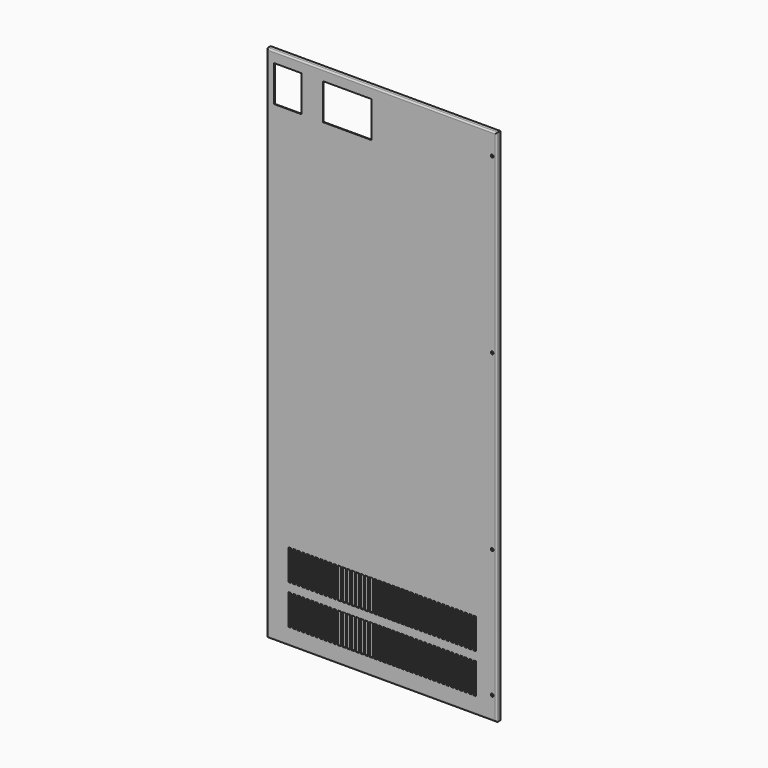
from build123d import *

# Parameters (mm, degrees)
F0_W     = 808.0375
F0_H     = 1825.625
F1_DEPTH = 7.9375
F2_T     = -2.65684
F3_R     = 5.08
F4_W     = 95.25
F4_H     = 127
F4_R     = 4.7625
F4_W_2   = 9.525
F4_H_2   = 107.95
F4_W_3   = 171.45
F5_DEPTH = 15.876
F7_W     = 1.5875
F7_H     = 19.05


with BuildPart() as f1:
    # F0 (on Front) → F1 (new body, symmetric)
    with BuildSketch(Plane.XZ):
        Rectangle(F0_W, F0_H)
        Rectangle(F0_W, F0_H)
    extrude(amount=F1_DEPTH, both=True)

    # F2
    f2_openings = [f1.faces().sort_by_distance(p)[0] for p in [
        (0, 7.9375, 0),
    ]]
    offset(amount=F2_T, openings=f2_openings)

    # F3
    f3_edges = [f1.edges().sort_by_distance(p)[0] for p in [
        (0, -7.9375, 912.8125),
        (404.01875, -7.9375, 0),
        (-404.01875, -7.9375, 0),
        (0, -7.9375, -912.8125),
    ]]
    fillet(f3_edges, radius=F3_R)

    # F4 (on face) → F5 (cut, through all)
    with BuildSketch(Plane.XZ.offset(7.9375)):
        with Locations((-330.99375, 811.2125)):
            Rectangle(F4_W, F4_H)
        with Locations((388.14375, 836.6125)):
            Circle(F4_R)
        with Locations((388.14375, -382.5875)):
            Circle(F4_R)
        with Locations((388.14375, -833.4375)):
            Circle(F4_R)
        with Locations((327.01865, -800.9255)):
            Rectangle(F4_W_2, F4_H_2)
        with Locations((311.14365, -800.9255)):
            Rectangle(F4_W_2, F4_H_2)
        with Locations((295.26865, -800.9255)):
            Rectangle(F4_W_2, F4_H_2)
        with Locations((279.39365, -800.9255)):
            Rectangle(F4_W_2, F4_H_2)
        with Locations((263.51865, -800.9255)):
            Rectangle(F4_W_2, F4_H_2)
        with Locations((247.64365, -800.9255)):
            Rectangle(F4_W_2, F4_H_2)
        with Locations((231.76865, -800.9255)):
            Rectangle(F4_W_2, F4_H_2)
        with Locations((215.89365, -800.9255)):
            Rectangle(F4_W_2, F4_H_2)
        with Locations((200.01865, -800.9255)):
            Rectangle(F4_W_2, F4_H_2)
        with Locations((184.14365, -800.9255)):
            Rectangle(F4_W_2, F4_H_2)
        with Locations((168.26865, -800.9255)):
            Rectangle(F4_W_2, F4_H_2)
        with Locations((152.39365, -800.9255)):
            Rectangle(F4_W_2, F4_H_2)
        with Locations((136.51865, -800.9255)):
            Rectangle(F4_W_2, F4_H_2)
        with Locations((120.64365, -800.9255)):
            Rectangle(F4_W_2, F4_H_2)
        with Locations((104.76865, -800.9255)):
            Rectangle(F4_W_2, F4_H_2)
        with Locations((88.89365, -800.9255)):
            Rectangle(F4_W_2, F4_H_2)
        with Locations((73.01865, -800.9255)):
            Rectangle(F4_W_2, F4_H_2)
        with Locations((57.14365, -800.9255)):
            Rectangle(F4_W_2, F4_H_2)
        with Locations((41.26865, -800.9255)):
            Rectangle(F4_W_2, F4_H_2)
        with Locations((25.39365, -800.9255)):
            Rectangle(F4_W_2, F4_H_2)
        with Locations((9.51865, -800.9255)):
            Rectangle(F4_W_2, F4_H_2)
        with Locations((-6.35635, -800.9255)):
            Rectangle(F4_W_2, F4_H_2)
        with Locations((-22.23135, -800.9255)):
            Rectangle(F4_W_2, F4_H_2)
        with Locations((-38.10635, -800.9255)):
            Rectangle(F4_W_2, F4_H_2)
        with Locations((-53.98135, -800.9255)):
            Rectangle(F4_W_2, F4_H_2)
        with Locations((-69.85635, -800.9255)):
            Rectangle(F4_W_2, F4_H_2)
        with Locations((-85.73135, -800.9255)):
            Rectangle(F4_W_2, F4_H_2)
        with Locations((-101.60635, -800.9255)):
            Rectangle(F4_W_2, F4_H_2)
        with Locations((-117.48135, -800.9255)):
            Rectangle(F4_W_2, F4_H_2)
        with Locations((-133.35635, -800.9255)):
            Rectangle(F4_W_2, F4_H_2)
        with Locations((-149.23135, -800.9255)):
            Rectangle(F4_W_2, F4_H_2)
        with Locations((-165.10635, -800.9255)):
            Rectangle(F4_W_2, F4_H_2)
        with Locations((-180.98135, -800.9255)):
            Rectangle(F4_W_2, F4_H_2)
        with Locations((-196.85635, -800.9255)):
            Rectangle(F4_W_2, F4_H_2)
        with Locations((-212.73135, -800.9255)):
            Rectangle(F4_W_2, F4_H_2)
        with Locations((-228.60635, -800.9255)):
            Rectangle(F4_W_2, F4_H_2)
        with Locations((-244.48135, -800.9255)):
            Rectangle(F4_W_2, F4_H_2)
        with Locations((-260.35635, -800.9255)):
            Rectangle(F4_W_2, F4_H_2)
        with Locations((-276.23135, -800.9255)):
            Rectangle(F4_W_2, F4_H_2)
        with Locations((-292.10635, -800.9255)):
            Rectangle(F4_W_2, F4_H_2)
        with Locations((-307.98135, -800.9255)):
            Rectangle(F4_W_2, F4_H_2)
        with Locations((-323.85635, -800.9255)):
            Rectangle(F4_W_2, F4_H_2)
        with Locations((327.01865, -661.9875)):
            Rectangle(F4_W_2, F4_H_2)
        with Locations((311.14365, -661.9875)):
            Rectangle(F4_W_2, F4_H_2)
        with Locations((295.26865, -661.9875)):
            Rectangle(F4_W_2, F4_H_2)
        with Locations((279.39365, -661.9875)):
            Rectangle(F4_W_2, F4_H_2)
        with Locations((263.51865, -661.9875)):
            Rectangle(F4_W_2, F4_H_2)
        with Locations((247.64365, -661.9875)):
            Rectangle(F4_W_2, F4_H_2)
        with Locations((231.76865, -661.9875)):
            Rectangle(F4_W_2, F4_H_2)
        with Locations((215.89365, -661.9875)):
            Rectangle(F4_W_2, F4_H_2)
        with Locations((200.01865, -661.9875)):
            Rectangle(F4_W_2, F4_H_2)
        with Locations((184.14365, -661.9875)):
            Rectangle(F4_W_2, F4_H_2)
        with Locations((168.26865, -661.9875)):
            Rectangle(F4_W_2, F4_H_2)
        with Locations((152.39365, -661.9875)):
            Rectangle(F4_W_2, F4_H_2)
        with Locations((136.51865, -661.9875)):
            Rectangle(F4_W_2, F4_H_2)
        with Locations((120.64365, -661.9875)):
            Rectangle(F4_W_2, F4_H_2)
        with Locations((104.76865, -661.9875)):
            Rectangle(F4_W_2, F4_H_2)
        with Locations((88.89365, -661.9875)):
            Rectangle(F4_W_2, F4_H_2)
        with Locations((73.01865, -661.9875)):
            Rectangle(F4_W_2, F4_H_2)
        with Locations((57.14365, -661.9875)):
            Rectangle(F4_W_2, F4_H_2)
        with Locations((41.26865, -661.9875)):
            Rectangle(F4_W_2, F4_H_2)
        with Locations((25.39365, -661.9875)):
            Rectangle(F4_W_2, F4_H_2)
        with Locations((9.51865, -661.9875)):
            Rectangle(F4_W_2, F4_H_2)
        with Locations((-6.35635, -661.9875)):
            Rectangle(F4_W_2, F4_H_2)
        with Locations((-22.23135, -661.9875)):
            Rectangle(F4_W_2, F4_H_2)
        with Locations((-38.10635, -661.9875)):
            Rectangle(F4_W_2, F4_H_2)
        with Locations((-53.98135, -661.9875)):
            Rectangle(F4_W_2, F4_H_2)
        with Locations((-69.85635, -661.9875)):
            Rectangle(F4_W_2, F4_H_2)
        with Locations((-85.73135, -661.9875)):
            Rectangle(F4_W_2, F4_H_2)
        with Locations((-101.60635, -661.9875)):
            Rectangle(F4_W_2, F4_H_2)
        with Locations((-117.48135, -661.9875)):
            Rectangle(F4_W_2, F4_H_2)
        with Locations((-133.35635, -661.9875)):
            Rectangle(F4_W_2, F4_H_2)
        with Locations((-149.23135, -661.9875)):
            Rectangle(F4_W_2, F4_H_2)
        with Locations((-165.10635, -661.9875)):
            Rectangle(F4_W_2, F4_H_2)
        with Locations((-180.98135, -661.9875)):
            Rectangle(F4_W_2, F4_H_2)
        with Locations((-196.85635, -661.9875)):
            Rectangle(F4_W_2, F4_H_2)
        with Locations((-212.73135, -661.9875)):
            Rectangle(F4_W_2, F4_H_2)
        with Locations((-228.60635, -661.9875)):
            Rectangle(F4_W_2, F4_H_2)
        with Locations((-244.48135, -661.9875)):
            Rectangle(F4_W_2, F4_H_2)
        with Locations((-260.35635, -661.9875)):
            Rectangle(F4_W_2, F4_H_2)
        with Locations((-276.23135, -661.9875)):
            Rectangle(F4_W_2, F4_H_2)
        with Locations((-292.10635, -661.9875)):
            Rectangle(F4_W_2, F4_H_2)
        with Locations((-307.98135, -661.9875)):
            Rectangle(F4_W_2, F4_H_2)
        with Locations((-323.85635, -661.9875)):
            Rectangle(F4_W_2, F4_H_2)
        with Locations((388.14375, 227.0125)):
            Circle(F4_R)
        with Locations((-121.44375, 811.2125)):
            Rectangle(F4_W_3, F4_H)
    extrude(amount=-F5_DEPTH, mode=Mode.SUBTRACT)

    # F7 (on offset) → F8 (revolve)
    with BuildSketch(Plane.YZ.offset(-396.59941)):
        with Locations((-4.48691, 833.95566)):
            Rectangle(F7_W, F7_H)
        with Locations((-4.48691, 225.94316)):
            Rectangle(F7_W, F7_H)
        with Locations((-4.48691, -382.06934)):
            Rectangle(F7_W, F7_H)
        with Locations((-4.48691, -833.95566)):
            Rectangle(F7_W, F7_H)
    revolve(axis=Axis((-396.59941, -0.51816, 0), (0, 0, -1)))


solid = f1.part
